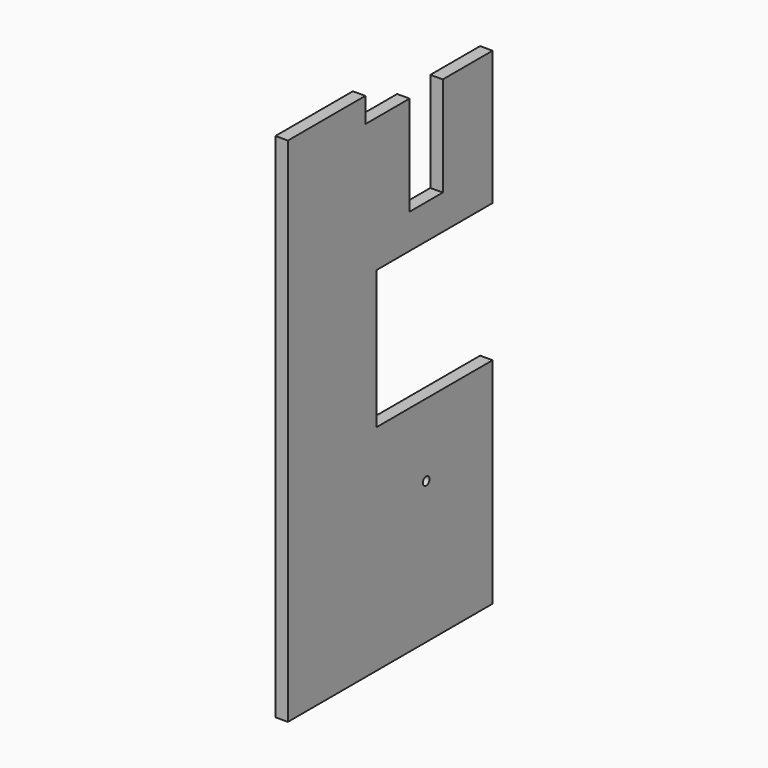
from build123d import *

# Parameters (mm, degrees)
F0_R     = 6
F1_DEPTH = 18


with BuildPart() as f1:
    # F0 (on Right) → F1 (new body)
    with BuildSketch(Plane.YZ):
        Polygon((0, 740), (0, 0), (370, 0), (370, 310), (160, 310), (160, 510), (370, 510), (370, 704), (280, 704), (280, 560), (220, 560), (220, 704), (140, 704), (140, 740), align=None)
        with Locations((250, 205)):
            Circle(F0_R, mode=Mode.SUBTRACT)
    extrude(amount=F1_DEPTH)


solid = f1.part
